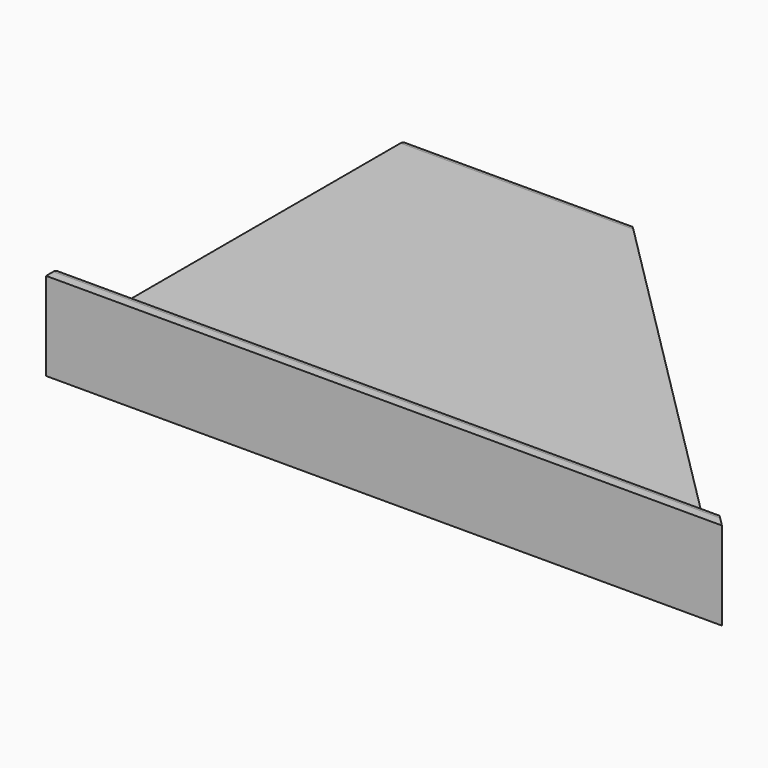
from build123d import *

# Parameters (mm, degrees)
F1_DEPTH = 949.325
F3_DEPTH = 254


with BuildPart() as f1:
    # F0 (on Right) → F1 (new body)
    with BuildSketch(Plane.YZ):
        with BuildLine():
            Line((0, 34.925), (0, 0))
            Line((0, 0), (635, 0))
            Line((635, 0), (635, 22.225))
            ThreePointArc((635, 22.225), (631.280256, 31.205256), (622.3, 34.925))
            Line((622.3, 34.925), (38.1, 34.925))
            ThreePointArc((38.1, 34.925), (29.119744, 38.644744), (25.4, 47.625))
            Line((25.4, 47.625), (25.4, 111.125))
            ThreePointArc((25.4, 111.125), (21.680256, 120.105256), (12.7, 123.825))
            Line((12.7, 123.825), (0, 123.825))
            Line((0, 123.825), (0, 34.925))
        make_face()
    extrude(amount=F1_DEPTH)

    # F2 (on face) → F3 (cut)
    with BuildSketch(Plane(origin=(0, 0, 0), x_dir=(1, 0, 0), z_dir=(0, 0, -1))):
        Polygon((949.325, -635), (949.325, 0), (314.325, -635), align=None)
    extrude(amount=-F3_DEPTH, mode=Mode.SUBTRACT)


solid = f1.part
